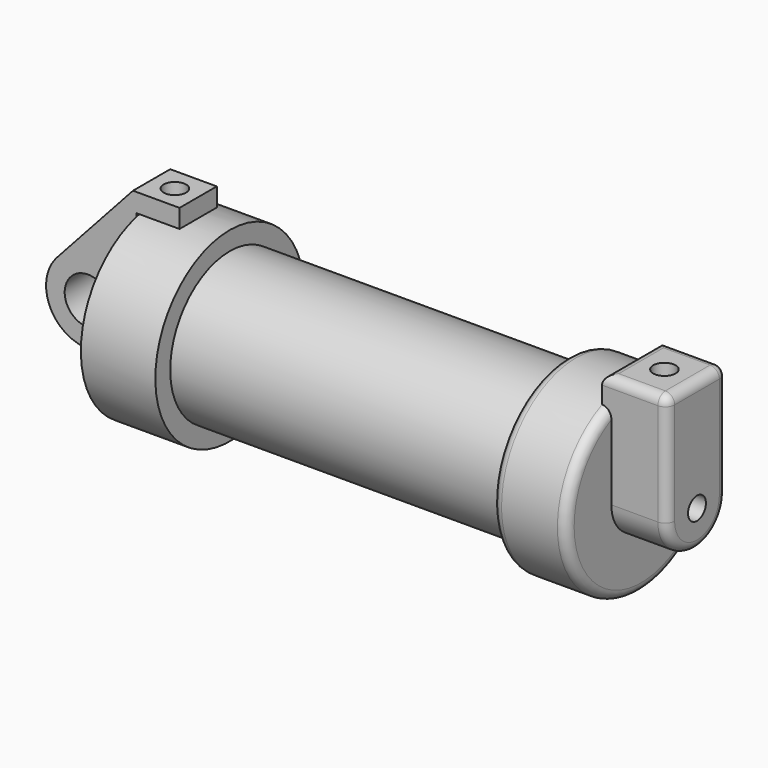
from build123d import *

# Parameters (mm, degrees)
F0_W       = 5.842
F0_H       = 12.7
F0_R       = 3.175
F2_DEPTH   = 3.175
F3_R       = 1.524
F4_DEPTH   = 7.62
F5_DEPTH   = 1.27
F7_D       = 3.048
F7_DEPTH   = 17.78
F7_TIP     = 0.9157115834
F7_2_D     = 3.048
F7_2_DEPTH = 17.78
F7_2_TIP   = 0.9157115834
F9_D       = 3.048
F9_DEPTH   = 10.414
F9_TIP     = 0.9157115834
F10_R      = 1.27


with BuildPart() as f1:
    # F0 (on Front) → F1 (revolve)
    with BuildSketch(Plane.XZ):
        with Locations((2.921, 6.35)):
            Rectangle(F0_W, F0_H)
        Polygon((5.842, 12.7), (5.842, 0), (66.294, 0), (66.294, 12.7), (56.134, 12.7), (56.134, 10.16), (10.16, 10.16), (10.16, 12.7), align=None)
    revolve(axis=Axis((33.147, 0, 0), (-1, 0, 0)))

    # F3 (on face) → F4 (join)
    with BuildSketch(Plane.YZ.offset(66.294)):
        with BuildLine():
            ThreePointArc((-5.08, 0), (0, 5.08), (5.08, 0))
            Line((5.08, 0), (5.08, 11.6397422652))
            ThreePointArc((5.08, 11.6397422652), (0, 12.7), (-5.08, 11.6397422652))
            Line((-5.08, 11.6397422652), (-5.08, 0))
        make_face()
        with BuildLine():
            ThreePointArc((-5.08, 11.6397422652), (0, 12.7), (5.08, 11.6397422652))
            Line((5.08, 11.6397422652), (5.08, 15.24))
            Line((5.08, 15.24), (-5.08, 15.24))
            Line((-5.08, 15.24), (-5.08, 11.6397422652))
        make_face()
        with BuildLine():
            ThreePointArc((-5.08, 0), (0, -5.08), (5.08, 0))
            ThreePointArc((5.08, 0), (0, 5.08), (-5.08, 0))
        make_face()
        Circle(F3_R, mode=Mode.SUBTRACT)
    extrude(amount=F4_DEPTH)

    # F5 (add): a face of the model
    f5_faces = [f1.faces().sort_by_distance(p)[0] for p in [
        (66.294, 0, 13.7792682875),
    ]]
    extrude(f5_faces, amount=F5_DEPTH)

    # F7
    with Locations(Plane.XY.offset(15.24)):
        with Locations((2.667, 0)):
            Hole(F7_D / 2, depth=F7_DEPTH)
            with Locations((0, 0, -(F7_DEPTH + F7_TIP / 2))):  # 118° drill point
                Cone(0, F7_D / 2, F7_TIP, mode=Mode.SUBTRACT)

    # F9
    with Locations(Plane.XY.offset(15.24)):
        with Locations((69.469, 0)):
            Hole(F9_D / 2, depth=F9_DEPTH)
            with Locations((0, 0, -(F9_DEPTH + F9_TIP / 2))):  # 118° drill point
                Cone(0, F9_D / 2, F9_TIP, mode=Mode.SUBTRACT)

    # F10
    f10_edges = [f1.edges().sort_by_distance(p)[0] for p in [
        (66.294, 0, -12.7),
        (56.134, 0, -12.7),
        (73.914, 0, 15.24),
        (65.024, 0, 15.24),
        (69.469, -5.08, 15.24),
        (69.469, 5.08, 15.24),
        (73.914, -5.08, 7.62),
    ]]
    fillet(f10_edges, radius=F10_R)


with BuildPart() as f2:
    # F0 (on Front) → F2 (new body, symmetric)
    with BuildSketch(Plane.XZ):
        with BuildLine():
            Line((-0.9398, 0), (0, 0))
            Line((0, 0), (0, 12.7))
            Line((0, 12.7), (5.842, 12.7))
            Line((5.842, 12.7), (5.842, 15.24))
            Line((5.842, 15.24), (-0.508, 15.24))
            Line((-0.508, 15.24), (-10.8806298187, 3.8475430269))
            ThreePointArc((-10.8806298187, 3.8475430269), (-4.5919612295, 5.3297205562), (-0.9398, 0))
        make_face()
        with BuildLine():
            ThreePointArc((-8.1826630726, -5.5069827884), (-3.1957909266, -4.5493385486), (-0.9398, 0))
            ThreePointArc((-0.9398, 0), (-4.5919612295, 5.3297205562), (-10.8806298187, 3.8475430269))
            ThreePointArc((-10.8806298187, 3.8475430269), (-12.1459778134, -1.5837270034), (-8.1826630726, -5.5069827884))
        make_face()
        with Locations((-6.6548, 0)):
            Circle(F0_R, mode=Mode.SUBTRACT)
        with BuildLine():
            Line((5.842, 0), (0, 0))
            Line((0, 0), (-0.9398, 0))
            ThreePointArc((-0.9398, 0), (-3.1957909266, -4.5493385486), (-8.1826630726, -5.5069827884))
            Line((-8.1826630726, -5.5069827884), (5.842, -9.398))
            Line((5.842, -9.398), (5.842, 0))
        make_face()
    extrude(amount=F2_DEPTH, both=True)

    # F7#2
    with Locations(Plane.XY.offset(15.24)):
        with Locations((2.667, 0)):
            Hole(F7_2_D / 2, depth=F7_2_DEPTH)
            with Locations((0, 0, -(F7_2_DEPTH + F7_2_TIP / 2))):  # 118° drill point
                Cone(0, F7_2_D / 2, F7_2_TIP, mode=Mode.SUBTRACT)


solid = Compound([f1.part, f2.part])
